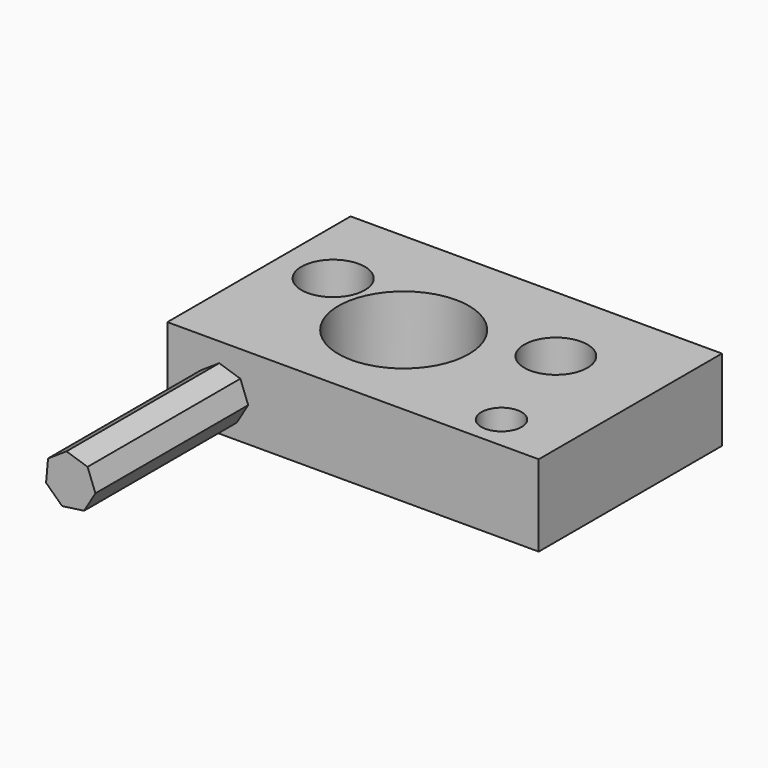
from build123d import *

# Parameters (mm, degrees)
F0_W     = 223.890856
F0_H     = 138.070342
F0_R     = 39.335101
F0_R_2   = 12.138706
F0_R_3   = 19.126546
F0_R_4   = 19.033636
F1_DEPTH = 49.03953
F3_DEPTH = 115.14023


with BuildPart() as f1:
    # F0 (on Top) → F1 (new body)
    with BuildSketch(Plane.XY):
        with Locations((27.580209, 48.369864)):
            Rectangle(F0_W, F0_H)
        with Locations((7.515498, 42.579502)):
            Circle(F0_R, mode=Mode.SUBTRACT)
        with Locations((100.552626, 0)):
            Circle(F0_R_2, mode=Mode.SUBTRACT)
        with Locations((-51.253084, 62.881328)):
            Circle(F0_R_3, mode=Mode.SUBTRACT)
        with Locations((80.178089, 66.453978)):
            Circle(F0_R_4, mode=Mode.SUBTRACT)
    extrude(amount=F1_DEPTH)

    # F2 (on face) → F3 (join)
    with BuildSketch(Plane.XZ.offset(20.665307)):
        Polygon((-35.650878, 20.804379), (-40.375502, 33.304681), (-53.094387, 37.404632), (-64.229952, 30.016885), (-65.396891, 16.704564), (-55.716474, 7.492119), (-42.478253, 9.316708), align=None)
    extrude(amount=F3_DEPTH)


solid = f1.part
